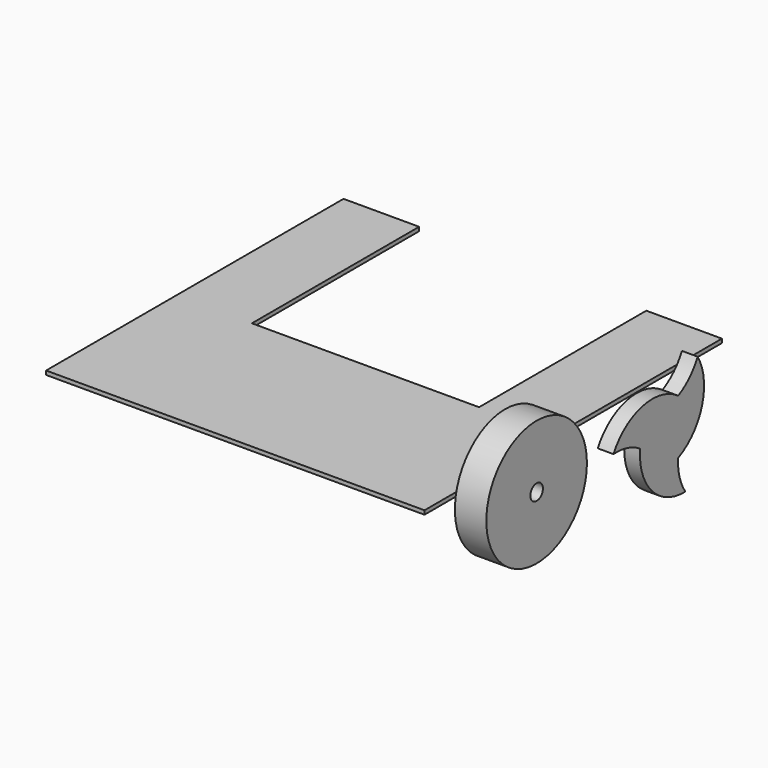
from build123d import *

# Parameters (mm, degrees)
F0_R          = 9.9695
F0_R_2        = 3.175
F1_DEPTH      = 12.7
F3_ANGLE      = 55
F5_DEPTH      = 25.4
F6_W          = 12.7015647013
F6_H          = 11.3607975654
F7_ANGLE_BACK = 20
F7_ANGLE      = 35
F9_R          = 101.6
F9_R_2        = 12.7
F10_DEPTH     = 50.8
F12_DEPTH     = 25.4
F13_W         = 122.2220659256
F13_H         = 337.8250226378
F14_DEPTH     = 6.35


with BuildPart() as f1:
    # F0 (on Right) → F1 (new body)
    with BuildSketch(Plane.YZ):
        Circle(F0_R)
        Circle(F0_R_2, mode=Mode.SUBTRACT)
    extrude(amount=F1_DEPTH)

    # F2 (on Front) → F3 (revolve)
    with BuildSketch(Plane.XZ):
        Polygon((0, 3.1384535633), (12.7009730786, 3.1384535633), (12.7009730786, 15.4148072024), (9.402487427, 15.4148072024), (9.402487427, 5.549292734), (3.5090376623, 5.549292734), (3.5090376623, 15.4148072024), (0, 15.4148072024), align=None)
    revolve(axis=Axis((6.3504865393, 0, 0), (1, 0, 0)), revolution_arc=F3_ANGLE)

    # F4 (on face) → F5 (cut)
    with BuildSketch(Plane(origin=(0, 0, 0), x_dir=(0, -1, 0), z_dir=(-1, 0, 0))):
        with BuildLine():
            ThreePointArc((0, 9.9695), (6.2088830117, 11.9271532939), (8.1665363055, 5.7182702822))
            Line((8.1665363055, 5.7182702822), (12.6270708322, 8.8415701822))
            ThreePointArc((12.6270708322, 8.8415701822), (7.117765849, 13.6731009799), (0, 15.4148072024))
            Line((0, 15.4148072024), (0, 9.9695))
        make_face()
    extrude(amount=-F5_DEPTH, mode=Mode.SUBTRACT)

    # F6 (on Front) → F7 (revolve)
    with BuildSketch(Plane.XZ, mode=Mode.PRIVATE) as f7_sk:
        with Locations((6.3507823506, -8.9246716816)):
            Rectangle(F6_W, F6_H)
    revolve(f7_sk.sketch.rotate(Axis((6.3462648541, 0, 0), (1, 0, 0)), -F7_ANGLE_BACK), axis=Axis((6.3462648541, 0, 0), (1, 0, 0)), revolution_arc=F7_ANGLE)


with BuildPart() as f10:
    # F9 (on Right) → F10 (new body)
    with BuildSketch(Plane.YZ):
        with Locations((-119.5533797145, 44.544018805)):
            Circle(F9_R)
        with Locations((-119.5533797145, 44.544018805)):
            Circle(F9_R_2, mode=Mode.SUBTRACT)
    extrude(amount=F10_DEPTH)


with BuildPart() as f12:
    # F11 (on Right) → F12 (new body)
    with BuildSketch(Plane.YZ):
        with BuildLine():
            ThreePointArc((237.3891258137, 83.8495728722), (221.0619489228, 60.800243837), (198.2306007051, 44.1696150828))
            ThreePointArc((198.2306007051, 44.1696150828), (126.0980894407, 58.6587827449), (67.410454154, 14.2876589671))
            ThreePointArc((67.410454154, 14.2876589671), (95.5353470841, 11.672573525), (121.353568175, 0.2153603429))
            ThreePointArc((121.353568175, 0.2153603429), (144.8718365321, -69.4978106819), (212.6421745615, -98.1372318392))
            ThreePointArc((212.6421745615, -98.1372318392), (200.8444585224, -72.472817362), (197.8575856492, -44.3849754257))
            ThreePointArc((197.8575856492, -44.3849754257), (246.4718285565, 10.839027937), (237.3891258137, 83.8495728722))
        make_face()
    extrude(amount=F12_DEPTH)


with BuildPart() as f14:
    # F13 (on Top) → F14 (new body)
    with BuildSketch(Plane.XY):
        Polygon((-685.9648823738, -189.4927024841), (-74.4511634111, -189.4927024841), (-74.4511634111, 73.5066011548), (-196.6732293367, 73.5066011548), (-563.7428164482, 73.5066011548), (-685.9648823738, 73.5066011548), align=None)
        with Locations((-135.5621963739, 242.4191124737)):
            Rectangle(F13_W, F13_H)
        with Locations((-624.853849411, 242.4191124737)):
            Rectangle(F13_W, F13_H)
    extrude(amount=F14_DEPTH)


solid = Compound([f10.part, f12.part, f14.part])
